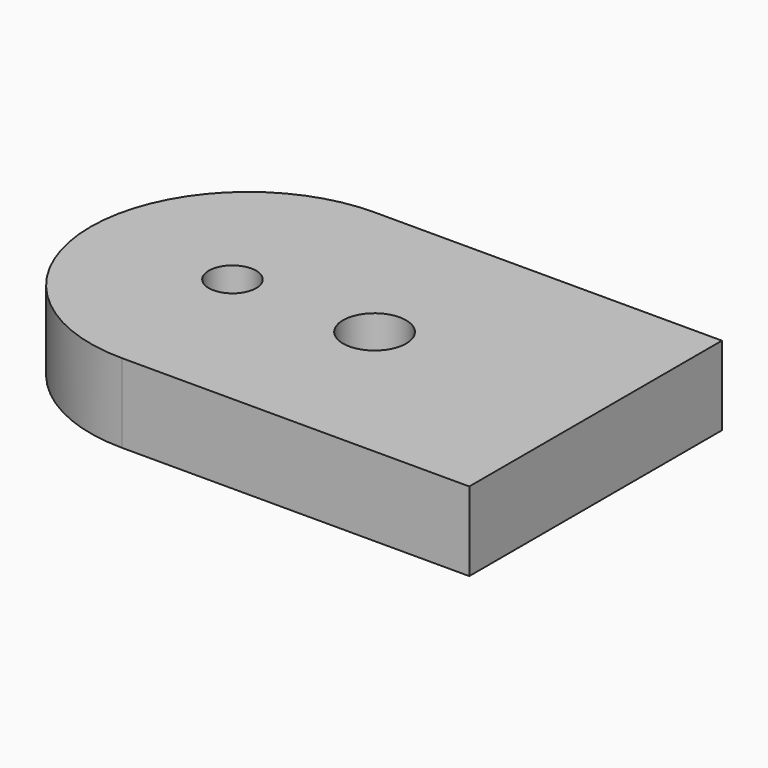
from build123d import *

# Parameters (mm, degrees)
F0_R     = 1.5
F1_DEPTH = 5


with BuildPart() as f1:
    # F0 (on Top) → F1 (new body)
    with BuildSketch(Plane.XY):
        with BuildLine():
            Line((16, 10), (-6, 10))
            ThreePointArc((-6, 10), (-13.0710678119, 7.0710678119), (-16, 0))
            ThreePointArc((-16, 0), (-13.0710678119, -7.0710678119), (-6, -10))
            Line((-6, -10), (16, -10))
            Line((16, -10), (16, 10))
        make_face()
        with Locations((-7, 0)):
            Circle(F0_R, mode=Mode.SUBTRACT)
        with BuildLine():
            ThreePointArc((0, 0), (2, 2), (4, 0))
            ThreePointArc((4, 0), (2, -2), (0, 0))
        make_face(mode=Mode.SUBTRACT)
    extrude(amount=F1_DEPTH)


solid = f1.part
